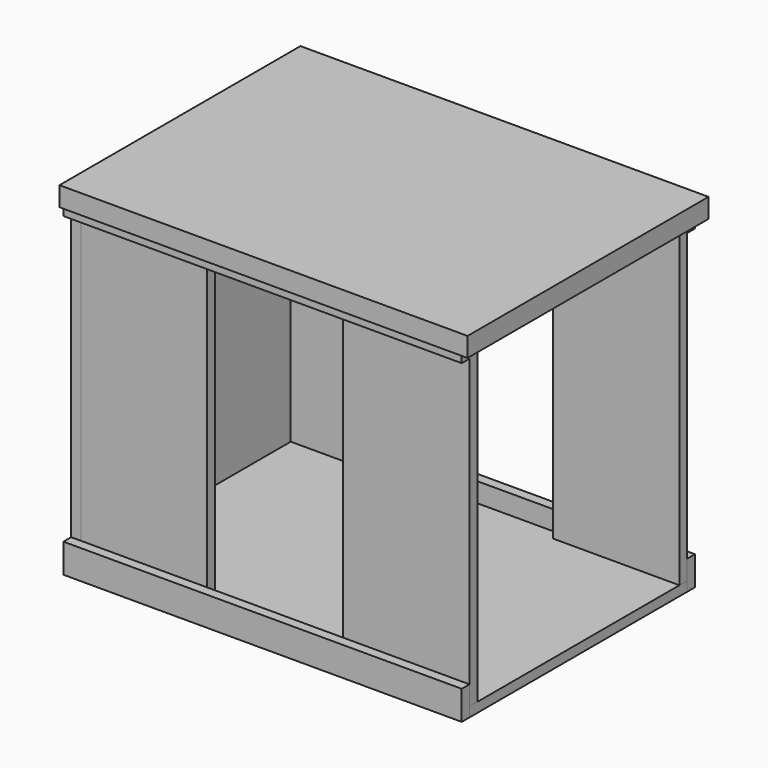
from build123d import *

# Parameters (mm, degrees)
BOX_W        = 840
BOX_H        = 620
BOX_DEPTH    = 40
BOX001_W     = 650
BOX001_H     = 560
BOX001_DEPTH = 20
BOX002_W     = 820
BOX002_H     = 560
BOX002_DEPTH = 20
BOX003_W     = 260
BOX003_H     = 20
BOX003_DEPTH = 650
BOX004_W     = 260
BOX004_H     = 20
BOX004_DEPTH = 650
BOX005_W     = 260
BOX005_H     = 20
BOX005_DEPTH = 650
BOX006_W     = 260
BOX006_H     = 20
BOX006_DEPTH = 650
BOX007_W     = 820
BOX007_H     = 20
BOX007_DEPTH = 60
BOX008_W     = 820
BOX008_H     = 20
BOX008_DEPTH = 60
BOX009_W     = 820
BOX009_H     = 20
BOX009_DEPTH = 20
BOX010_W     = 820
BOX010_H     = 20
BOX010_DEPTH = 20


with BuildPart() as top:
    # Box → Box (new body)
    with BuildSketch(Plane.XY.offset(760)):
        with Locations((420, 310)):
            Rectangle(BOX_W, BOX_H)
    extrude(amount=BOX_DEPTH)


with BuildPart() as rear:
    # Box001 → Box001 (new body)
    with BuildSketch(Plane(origin=(20, 30, 110), x_dir=(0, 0, 1), z_dir=(-1, 0, 0))):
        with Locations((325, 280)):
            Rectangle(BOX001_W, BOX001_H)
    extrude(amount=BOX001_DEPTH)


with BuildPart() as bottom:
    # Box002 → Box002 (new body)
    with BuildSketch(Plane(origin=(0, 30, 90), x_dir=(1, 0, 0), z_dir=(0, 0, 1))):
        with Locations((410, 280)):
            Rectangle(BOX002_W, BOX002_H)
    extrude(amount=BOX002_DEPTH)


with BuildPart() as obj1:
    # Box003 → Box003 (new body)
    with BuildSketch(Plane(origin=(20, 30, 110), x_dir=(1, 0, 0), z_dir=(0, 0, 1))):
        with Locations((130, 10)):
            Rectangle(BOX003_W, BOX003_H)
    extrude(amount=BOX003_DEPTH)


with BuildPart() as side_rr:
    # Box004 → Box004 (new body)
    with BuildSketch(Plane(origin=(20, 570, 110), x_dir=(1, 0, 0), z_dir=(0, 0, 1))):
        with Locations((130, 10)):
            Rectangle(BOX004_W, BOX004_H)
    extrude(amount=BOX004_DEPTH)


with BuildPart() as obj2:
    # Box005 → Box005 (new body)
    with BuildSketch(Plane(origin=(560, 30, 110), x_dir=(1, 0, 0), z_dir=(0, 0, 1))):
        with Locations((130, 10)):
            Rectangle(BOX005_W, BOX005_H)
    extrude(amount=BOX005_DEPTH)


with BuildPart() as side_fr:
    # Box006 → Box006 (new body)
    with BuildSketch(Plane(origin=(560, 570, 110), x_dir=(1, 0, 0), z_dir=(0, 0, 1))):
        with Locations((130, 10)):
            Rectangle(BOX006_W, BOX006_H)
    extrude(amount=BOX006_DEPTH)


with BuildPart() as plinth_l:
    # Box007 → Box007 (new body)
    with BuildSketch(Plane(origin=(0, 10, 90), x_dir=(1, 0, 0), z_dir=(0, 0, 1))):
        with Locations((410, 10)):
            Rectangle(BOX007_W, BOX007_H)
    extrude(amount=BOX007_DEPTH)


with BuildPart() as plinth_r:
    # Box008 → Box008 (new body)
    with BuildSketch(Plane(origin=(0, 590, 90), x_dir=(1, 0, 0), z_dir=(0, 0, 1))):
        with Locations((410, 10)):
            Rectangle(BOX008_W, BOX008_H)
    extrude(amount=BOX008_DEPTH)


with BuildPart() as fixing_l:
    # Box009 → Box009 (new body)
    with BuildSketch(Plane(origin=(0, 10, 740), x_dir=(1, 0, 0), z_dir=(0, 0, 1))):
        with Locations((410, 10)):
            Rectangle(BOX009_W, BOX009_H)
    extrude(amount=BOX009_DEPTH)


with BuildPart() as fixing_r:
    # Box010 → Box010 (new body)
    with BuildSketch(Plane(origin=(0, 590, 740), x_dir=(1, 0, 0), z_dir=(0, 0, 1))):
        with Locations((410, 10)):
            Rectangle(BOX010_W, BOX010_H)
    extrude(amount=BOX010_DEPTH)


solid = Compound([top.part, rear.part, bottom.part, obj1.part, side_rr.part, obj2.part, side_fr.part, plinth_l.part, plinth_r.part, fixing_l.part, fixing_r.part])
